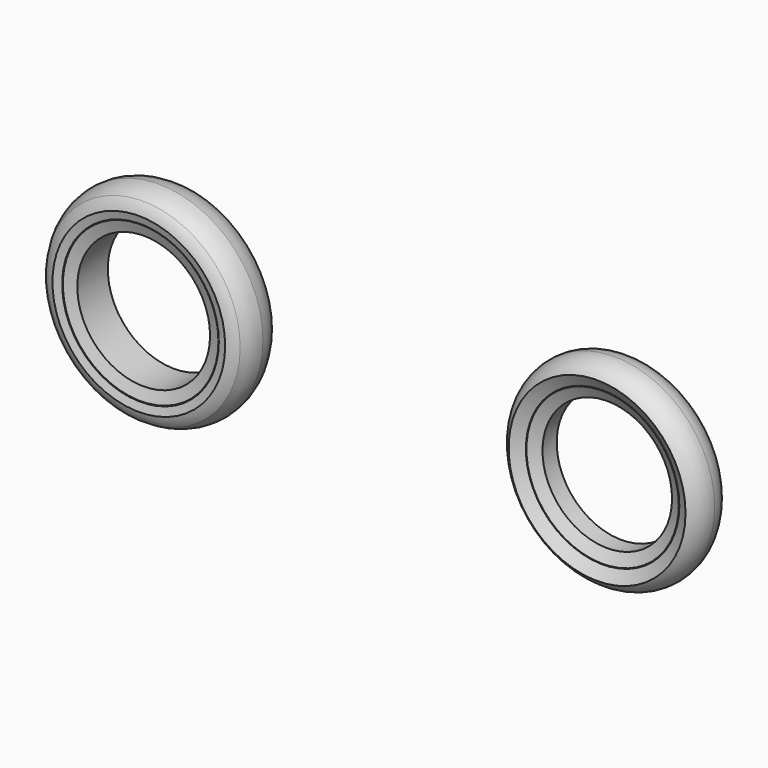
from build123d import *

# Parameters (mm, degrees)
F4_ANGLE = 90


with BuildPart() as f1:
    # F0 (on Right) → F1 (revolve)
    with BuildSketch(Plane.YZ):
        with BuildLine():
            Line((3.627636, 60.390574), (5.325263, 63.27011))
            ThreePointArc((5.325263, 63.27011), (3.036374, 65.411411), (0, 66.188985))
            ThreePointArc((0, 66.188985), (-3.036374, 65.411411), (-5.325263, 63.27011))
            Line((-5.325263, 63.27011), (-3.627636, 60.390574))
            Line((-3.627636, 60.390574), (-3.069394, 60.390574))
            Line((-3.069394, 60.390574), (-2.19021, 58.676572))
            Line((-2.19021, 58.676572), (0, 58.676572))
            Line((0, 58.676572), (2.19021, 58.676572))
            Line((2.19021, 58.676572), (3.069394, 60.390574))
            Line((3.069394, 60.390574), (3.627636, 60.390574))
        make_face()
        Polygon((2.19021, 58.538692), (0, 58.538692), (-2.19021, 58.538692), (-3.069394, 60.252694), (-3.627636, 60.252694), (-2.19021, 57.450379), (0, 57.450379), (2.19021, 57.450379), (3.627636, 60.252694), (3.069394, 60.252694), align=None)
    revolve(axis=Axis((0, 14.656908, 41.515475), (0, 1, 0)))


with BuildPart() as f2:
    # F0 (on Right) → F2 (revolve)
    with BuildSketch(Plane.YZ):
        with BuildLine():
            Line((5.669586, -20.130498), (6.192126, -18.162504))
            ThreePointArc((6.192126, -18.162504), (5.693969, -16.758743), (4.882506, -15.50965))
            ThreePointArc((4.882506, -15.50965), (2.580123, -14.265179), (0, -13.826265))
            ThreePointArc((0, -13.826265), (-2.580123, -14.265179), (-4.882506, -15.50965))
            ThreePointArc((-4.882506, -15.50965), (-5.693969, -16.758743), (-6.192126, -18.162504))
            Line((-6.192126, -18.162504), (-5.669586, -20.130498))
            Line((-5.669586, -20.130498), (-5.214989, -20.348081))
            Line((-5.214989, -20.348081), (-4.691386, -21.662559))
            Line((-4.691386, -21.662559), (0, -21.662559))
            Line((0, -21.662559), (4.691386, -21.662559))
            Line((4.691386, -21.662559), (5.214989, -20.348081))
            Line((5.214989, -20.348081), (5.669586, -20.130498))
        make_face()
        Polygon((4.691386, -22.162454), (0, -22.162454), (-4.691386, -22.162454), (-5.214989, -20.56778), (-5.623827, -20.272905), (-4.691386, -23.07662), (0, -23.07662), (4.691386, -23.07662), (5.623827, -20.272905), (5.214989, -20.56778), align=None)
    revolve(axis=Axis((0, -1.342077, -39.404664), (0, 1, 0)))


with BuildPart() as f2_1:
    # F3: moved
    add(f2.part.moved(Location((0, 0, -31.10099))))


with BuildPart() as f2_2:
    # F4: moved
    add(f2_1.part.rotate(Axis((0, 3.118756, 0), (0, 1, 0)), F4_ANGLE))


with BuildPart() as f1_1:
    # F4: moved
    add(f1.part.rotate(Axis((0, 3.118756, 0), (0, 1, 0)), F4_ANGLE))


solid = Compound([f2_2.part, f1_1.part])
